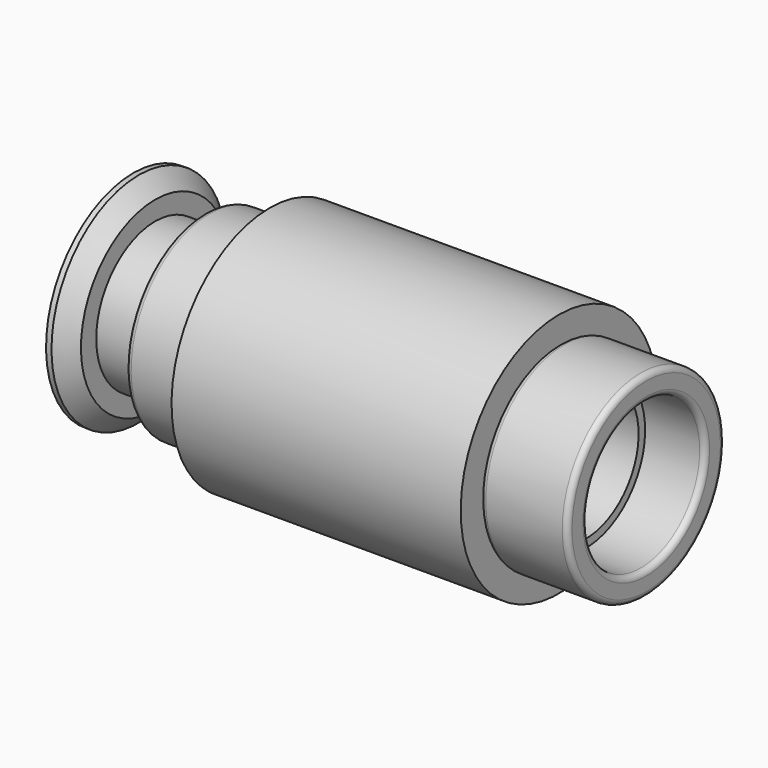
from build123d import *

# Parameters (mm, degrees)
F0_W = 26.5
F0_H = 3.25


with BuildPart() as f1:
    # F0 (on Front) → F1 (revolve)
    with BuildSketch(Plane.XZ):
        with Locations((13.25, 9.625)):
            Rectangle(F0_W, F0_H)
    revolve(axis=Axis((14.8436599411, 0, 0), (1, 0, 0)))


with BuildPart() as f3:
    # F2 (on Front) → F3 (revolve)
    with BuildSketch(Plane.XZ):
        Polygon((29, 6.75), (-10.5, 6.75), (-10.5, 8.5), (-12, 10), (-12.5, 10), (-12.5, 6), (29, 6), align=None)
    revolve(axis=Axis((-5.3301202133, 0, 0), (1, 0, 0)))


with BuildPart() as f5:
    # F4 (on Front) → F5 (revolve)
    with BuildSketch(Plane.XZ):
        with BuildLine():
            Line((-0.5, 9), (-5.5, 9))
            ThreePointArc((-5.5, 9), (-5.8535533906, 8.8535533906), (-6, 8.5))
            Line((-6, 8.5), (-6, 7.25))
            ThreePointArc((-6, 7.25), (-5.8535533906, 6.8964466094), (-5.5, 6.75))
            Line((-5.5, 6.75), (26.5, 6.75))
            Line((26.5, 6.75), (34, 6.75))
            ThreePointArc((34, 6.75), (34.3535533906, 6.8964466094), (34.5, 7.25))
            Line((34.5, 7.25), (34.5, 8.5))
            ThreePointArc((34.5, 8.5), (34.3535533906, 8.8535533906), (34, 9))
            Line((34, 9), (27, 9))
            ThreePointArc((27, 9), (26.6464466094, 8.8535533906), (26.5, 8.5))
            Line((26.5, 8.5), (26.5, 8))
            Line((26.5, 8), (0, 8))
            Line((0, 8), (0, 8.5))
            ThreePointArc((0, 8.5), (-0.1464466094, 8.8535533906), (-0.5, 9))
        make_face()
    revolve(axis=Axis((-21.9604996964, 0, 0), (1, 0, 0)))


solid = Compound([f1.part, f3.part, f5.part])
